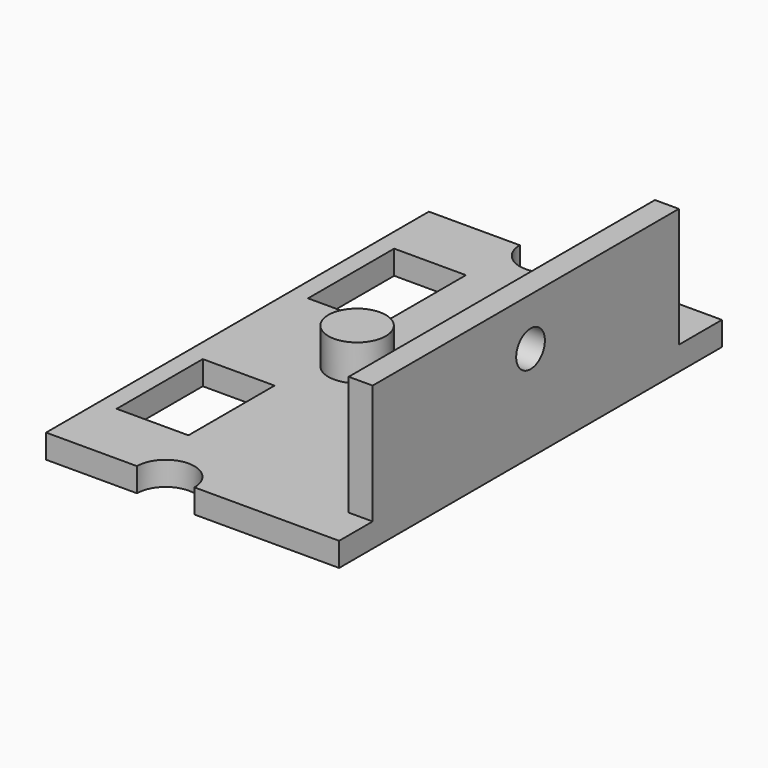
from build123d import *

# Parameters (mm, degrees)
CYLINDER028_R           = 1.5
CYLINDER028_DEPTH       = 10
CYLINDER028_PITCH_ANGLE = 90
CYLINDER023_R           = 2.4
CYLINDER023_DEPTH       = 3
CYLINDER026_R           = 0.9
CYLINDER026_DEPTH       = 3
CYLINDER027_R           = 0.9
CYLINDER027_DEPTH       = 3
CYLINDER025_R           = 2.4
CYLINDER025_DEPTH       = 6
CYLINDER024_R           = 2.4
CYLINDER024_DEPTH       = 5
BOX042_W                = 2
BOX042_H                = 32
BOX042_DEPTH            = 10
BOX041_W                = 6
BOX041_H                = 9
BOX041_DEPTH            = 10
BOX040_W                = 6
BOX040_H                = 9
BOX040_DEPTH            = 10
BOX039_W                = 24.5
BOX039_H                = 40
BOX039_DEPTH            = 2


with BuildPart() as cilindro028:
    # Cylinder028 → Cylinder028 (new body)
    with BuildSketch(Plane.XY):
        Circle(CYLINDER028_R)
    extrude(amount=CYLINDER028_DEPTH)


with BuildPart() as cilindro028_1:
    # Cylinder028 pitch: moved
    add(cilindro028.part.rotate(Axis((0, 0, 0), (0, 1, 0)), CYLINDER028_PITCH_ANGLE))


with BuildPart() as cilindro028_2:
    # Cylinder028 placement: moved
    add(cilindro028_1.part.moved(Location((-49, -0.5, 6))))


with BuildPart() as cilindro023:
    # Cylinder023 → Cylinder023 (new body)
    with BuildSketch(Plane(origin=(-59.5, -0.5, 0), x_dir=(1, 0, 0), z_dir=(0, 0, 1))):
        Circle(CYLINDER023_R)
    extrude(amount=CYLINDER023_DEPTH)


with BuildPart() as cilindro026:
    # Cylinder026 → Cylinder026 (new body)
    with BuildSketch(Plane(origin=(-49.5, 9.5, 0), x_dir=(1, 0, 0), z_dir=(0, 0, 1))):
        Circle(CYLINDER026_R)
    extrude(amount=CYLINDER026_DEPTH)


with BuildPart() as cilindro027:
    # Cylinder027 → Cylinder027 (new body)
    with BuildSketch(Plane(origin=(-49.5, -10.5, 0), x_dir=(1, 0, 0), z_dir=(0, 0, 1))):
        Circle(CYLINDER027_R)
    extrude(amount=CYLINDER027_DEPTH)


with BuildPart() as cilindro025:
    # Cylinder025 → Cylinder025 (new body)
    with BuildSketch(Plane(origin=(-59.5, -20.5, -4), x_dir=(1, 0, 0), z_dir=(0, 0, 1))):
        Circle(CYLINDER025_R)
    extrude(amount=CYLINDER025_DEPTH)


with BuildPart() as cilindro024:
    # Cylinder024 → Cylinder024 (new body)
    with BuildSketch(Plane(origin=(-59.5, 19.5, -3), x_dir=(1, 0, 0), z_dir=(0, 0, 1))):
        Circle(CYLINDER024_R)
    extrude(amount=CYLINDER024_DEPTH)


with BuildPart() as cubo036:
    # Box042 → Box042 (new body)
    with BuildSketch(Plane(origin=(-47, -17, 0), x_dir=(1, 0, 0), z_dir=(0, 0, 1))):
        with Locations((1, 16)):
            Rectangle(BOX042_W, BOX042_H)
    extrude(amount=BOX042_DEPTH)


with BuildPart() as cubo035:
    # Box041 → Box041 (new body)
    with BuildSketch(Plane(origin=(-68, 5, -3), x_dir=(1, 0, 0), z_dir=(0, 0, 1))):
        with Locations((3, 4.5)):
            Rectangle(BOX041_W, BOX041_H)
    extrude(amount=BOX041_DEPTH)


with BuildPart() as cubo034:
    # Box040 → Box040 (new body)
    with BuildSketch(Plane(origin=(-68, -15, -3), x_dir=(1, 0, 0), z_dir=(0, 0, 1))):
        with Locations((3, 4.5)):
            Rectangle(BOX040_W, BOX040_H)
    extrude(amount=BOX040_DEPTH)


with BuildPart() as obj1:
    # Box039 → Box039 (new body)
    with BuildSketch(Plane(origin=(-69.5, -20.5, -2), x_dir=(1, 0, 0), z_dir=(0, 0, 1))):
        with Locations((12.25, 20)):
            Rectangle(BOX039_W, BOX039_H)
    extrude(amount=BOX039_DEPTH)

    # Cut049: cut Cubo034
    add(cubo034.part, mode=Mode.SUBTRACT)

    # Cut050: cut Cubo035
    add(cubo035.part, mode=Mode.SUBTRACT)

    # Fusion011: union Cubo036
    add(cubo036.part)

    # Cut051: cut Cilindro024
    add(cilindro024.part, mode=Mode.SUBTRACT)

    # Cut052: cut Cilindro025
    add(cilindro025.part, mode=Mode.SUBTRACT)

    # Fusion012: union Cilindro023, Cilindro026, Cilindro027
    add(cilindro023.part)
    add(cilindro026.part)
    add(cilindro027.part)

    # Cut053: cut Cilindro028
    add(cilindro028_2.part, mode=Mode.SUBTRACT)


solid = obj1.part
